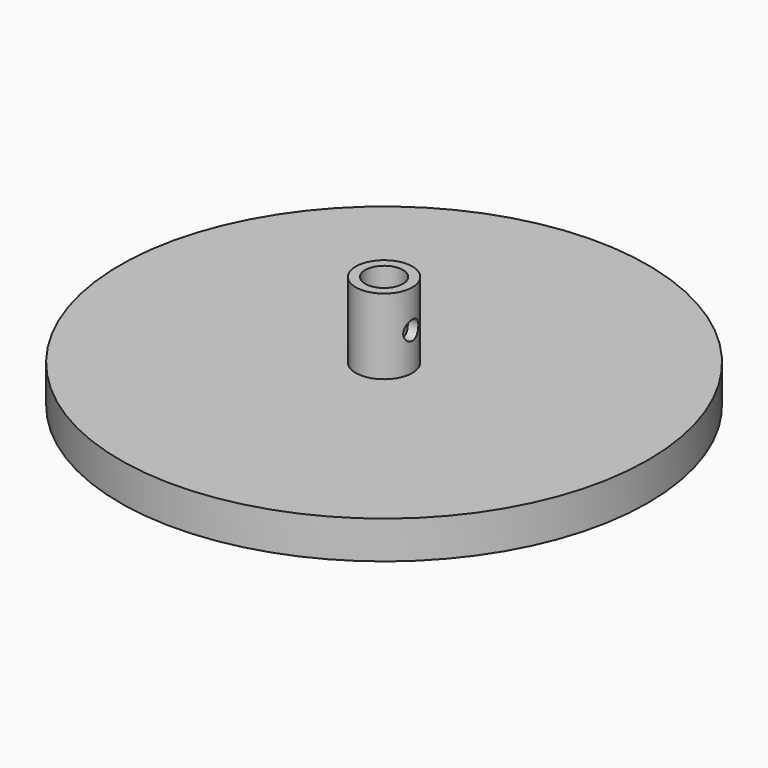
from build123d import *

# Parameters (mm, degrees)
SKETCH_R             = 70
PAD_DEPTH            = 10
SKETCH001_W          = 10
SKETCH001_H          = 20
POCKET_DEPTH         = 5
POLARPATTERN_COUNT   = 12
SKETCH002_R          = 7.5
SKETCH002_R_2        = 5
PAD001_DEPTH         = 20
SKETCH003_R          = 2.5
POCKET001_DEPTH      = 70.001
POCKET001_DEPTH_BACK = -70.001


with BuildPart() as part:
    # Sketch → Pad (new body)
    with BuildSketch(Plane.XY):
        Circle(SKETCH_R)
    extrude(amount=PAD_DEPTH)

    # Sketch001 (on Face2 of Pad) → Pocket (cut)
    with BuildSketch(Plane(origin=(0, 0, 0), x_dir=(1, 0, 0), z_dir=(0, 0, -1))):
        with Locations((0, 40)):
            Rectangle(SKETCH001_W, SKETCH001_H)
    pocket = extrude(amount=-POCKET_DEPTH, mode=Mode.SUBTRACT)

    # PolarPattern: Pocket ×12 about axis
    polarpattern_axis = Axis((0, 0, 0), (0, 0, -1))
    for i in range(1, POLARPATTERN_COUNT):
        add(pocket.rotate(polarpattern_axis, i * 360 / POLARPATTERN_COUNT), mode=Mode.SUBTRACT)

    # Sketch002 (on Face3 of PolarPattern) → Pad001 (join)
    with BuildSketch(Plane.XY.offset(10)):
        Circle(SKETCH002_R)
        Circle(SKETCH002_R_2, mode=Mode.SUBTRACT)
    extrude(amount=PAD001_DEPTH)

    # Sketch003 → Pocket001 (cut, two sides)
    with BuildSketch(Plane.YZ) as pocket001_sk:
        with Locations((0, 20)):
            Circle(SKETCH003_R)
    extrude(amount=-POCKET001_DEPTH, mode=Mode.SUBTRACT)
    extrude(pocket001_sk.sketch, amount=-POCKET001_DEPTH_BACK, mode=Mode.SUBTRACT)


solid = part.part
